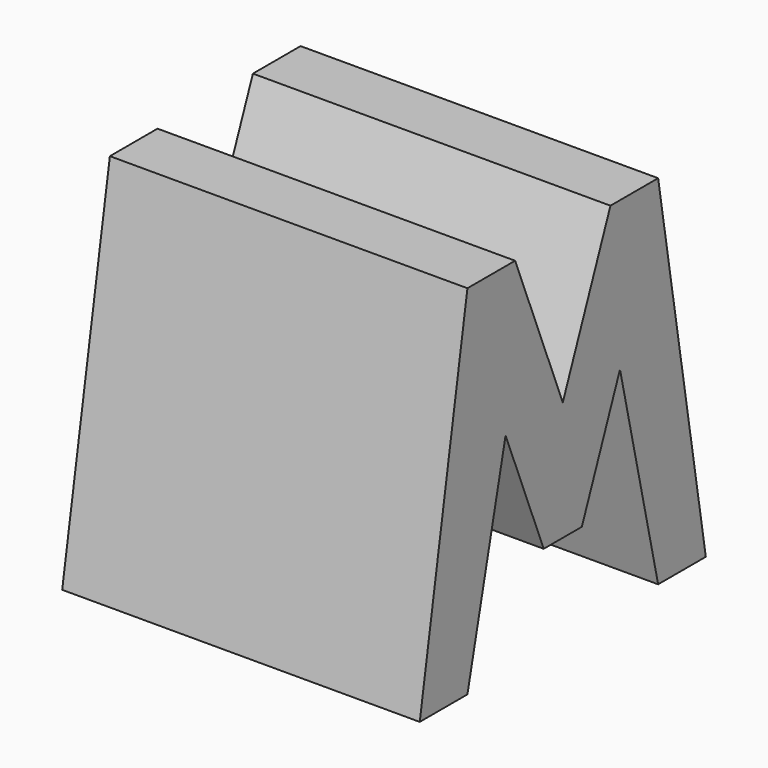
from build123d import *

# Parameters (mm, degrees)
F0_W     = 38.1
F0_H     = 38.1
F1_DEPTH = 38.1
F5_DEPTH = 38.1


with BuildPart() as f1:
    # F0 (on Front) → F1 (new body)
    with BuildSketch(Plane.XZ):
        with Locations((19.05, 19.05)):
            Rectangle(F0_W, F0_H)
    extrude(amount=F1_DEPTH)

    # F4 (on offset) → F5 (cut)
    with BuildSketch(Plane.YZ.offset(38.1)):
        Polygon((-38.1, 38.1), (-38.1, 0), (-31.75, 38.1), align=None)
        Polygon((-19.05, 22.225), (-12.7, 38.1), (-25.4, 38.1), align=None)
        Polygon((-6.35, 38.1), (0, 0), (0, 38.1), align=None)
        Polygon((-31.75, 0), (-6.35, 0), (-11.43, 22.225), (-16.51, 9.525), (-21.59, 9.525), (-26.67, 22.225), align=None)
    extrude(amount=-F5_DEPTH, mode=Mode.SUBTRACT)


solid = f1.part
